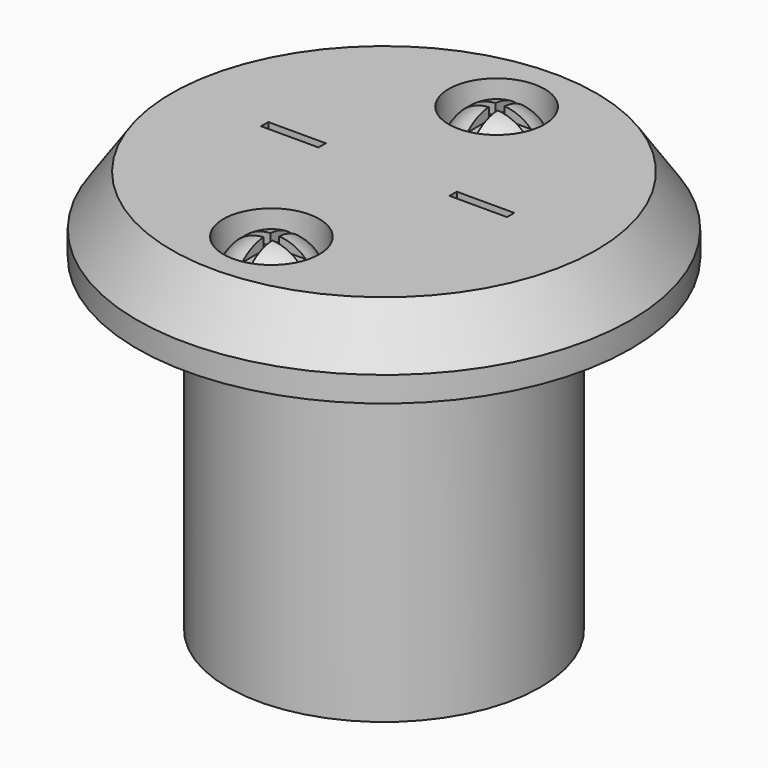
from build123d import *

# Parameters (mm, degrees)
F0_R      = 12.446
F1_DEPTH  = 1.27
F1_FACE_R = 12.446
F3_R      = 10.704309
F5_R      = 2.415156
F6_DEPTH  = 2.54
F7_R      = 2.18677
F8_DEPTH  = 2.54
F9_R      = 2.032
F11_DEPTH = 0.5842
F12_W     = 2.895786
F12_H     = 0.458332
F13_DEPTH = 2.54
F14_R     = 7.874
F15_DEPTH = 16.51


with BuildPart() as f1:
    # F0 (on Top) → F1 (new body)
    with BuildSketch(Plane.XY):
        Circle(F0_R)
    extrude(amount=-F1_DEPTH)

    # F1_face (on face) → F4 section 0
    with BuildSketch(Plane.XY):
        Circle(F1_FACE_R)
    # F3 (on offset) → F4 section 1
    with BuildSketch(Plane.XY.offset(2.54)):
        Circle(F3_R)
    loft()

    # F5 (on face) → F6 (cut)
    with BuildSketch(Plane.XY.offset(2.54)):
        with Locations((0, 7.094511)):
            Circle(F5_R)
        with Locations((0, -7.094511)):
            Circle(F5_R)
    extrude(amount=-F6_DEPTH, mode=Mode.SUBTRACT)

    # F7 (on face) → F8 (join)
    with BuildSketch(Plane.XY):
        with Locations((0, 7.094511)):
            Circle(F7_R)
        with Locations((0, -7.094511)):
            Circle(F7_R)
    extrude(amount=F8_DEPTH)

    # F9
    f9_edges = [f1.edges().sort_by_distance(p)[0] for p in [
        (-2.18677, 7.094511, 2.54),
        (-2.18677, -7.094511, 2.54),
    ]]
    fillet(f9_edges, radius=F9_R)

    # F10 (on face) → F11 (cut)
    with BuildSketch(Plane.XY.offset(2.54)):
        Polygon((0.21961, 8.674728), (-0.21961, 8.674728), (-0.21961, 7.314122), (-1.580216, 7.314122), (-1.580216, 6.874901), (-0.21961, 6.874901), (-0.21961, 5.514295), (0.21961, 5.514295), (0.21961, 6.874901), (1.580216, 6.874901), (1.580216, 7.314122), (0.21961, 7.314122), align=None)
        Polygon((1.580216, -6.874901), (0.21961, -6.874901), (0.21961, -5.514295), (-0.21961, -5.514295), (-0.21961, -6.874901), (-1.580216, -6.874901), (-1.580216, -7.314122), (-0.21961, -7.314122), (-0.21961, -8.674728), (0.21961, -8.674728), (0.21961, -7.314122), (1.580216, -7.314122), align=None)
    extrude(amount=-F11_DEPTH, mode=Mode.SUBTRACT)

    # F12 (on face) → F13 (cut)
    with BuildSketch(Plane.XY.offset(2.54)):
        with Locations((-4.749893, 0.229166)):
            Rectangle(F12_W, F12_H)
        with Locations((4.749893, 0.229166)):
            Rectangle(F12_W, F12_H)
    extrude(amount=-F13_DEPTH, mode=Mode.SUBTRACT)

    # F14 (on face) → F15 (join)
    with BuildSketch(Plane(origin=(0, 0, -1.27), x_dir=(1, 0, 0), z_dir=(0, 0, -1))):
        Circle(F14_R)
    extrude(amount=F15_DEPTH)


solid = f1.part
